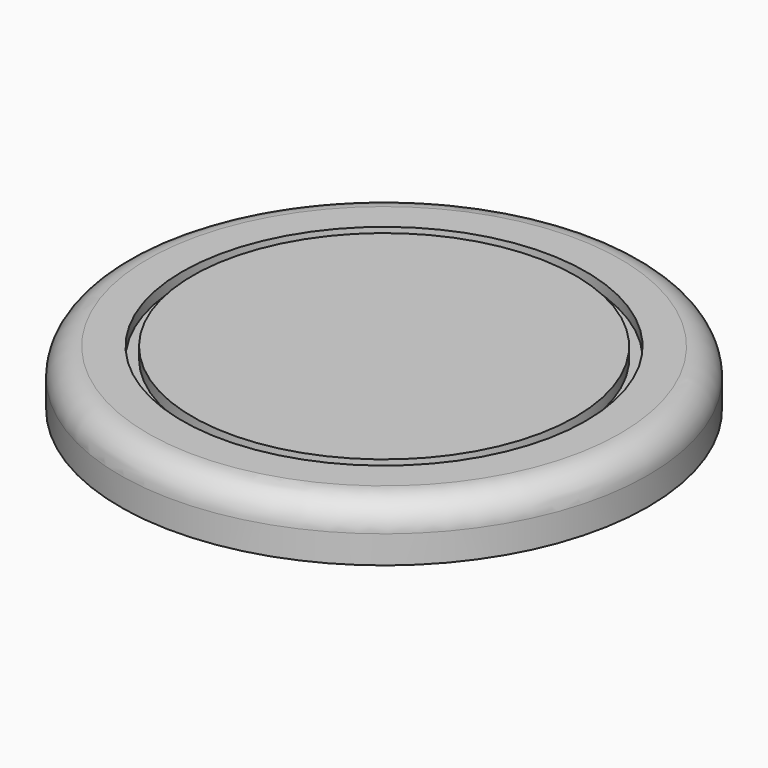
from build123d import *

# Parameters (mm, degrees)
F0_R     = 47.5
F1_DEPTH = 10
F2_R     = 5
F3_R     = 36.336935
F3_R_2   = 34.443129
F4_DEPTH = 2


with BuildPart() as f1:
    # F0 (on Top) → F1 (new body)
    with BuildSketch(Plane.XY):
        Circle(F0_R)
    extrude(amount=F1_DEPTH)

    # F2
    f2_edges = [f1.edges().sort_by_distance(p)[0] for p in [
        (-47.5, 0, 10),
    ]]
    fillet(f2_edges, radius=F2_R)

    # F3 (on face) → F4 (cut)
    with BuildSketch(Plane.XY.offset(10)):
        Circle(F3_R)
        Circle(F3_R_2, mode=Mode.SUBTRACT)
    extrude(amount=-F4_DEPTH, mode=Mode.SUBTRACT)


solid = f1.part
